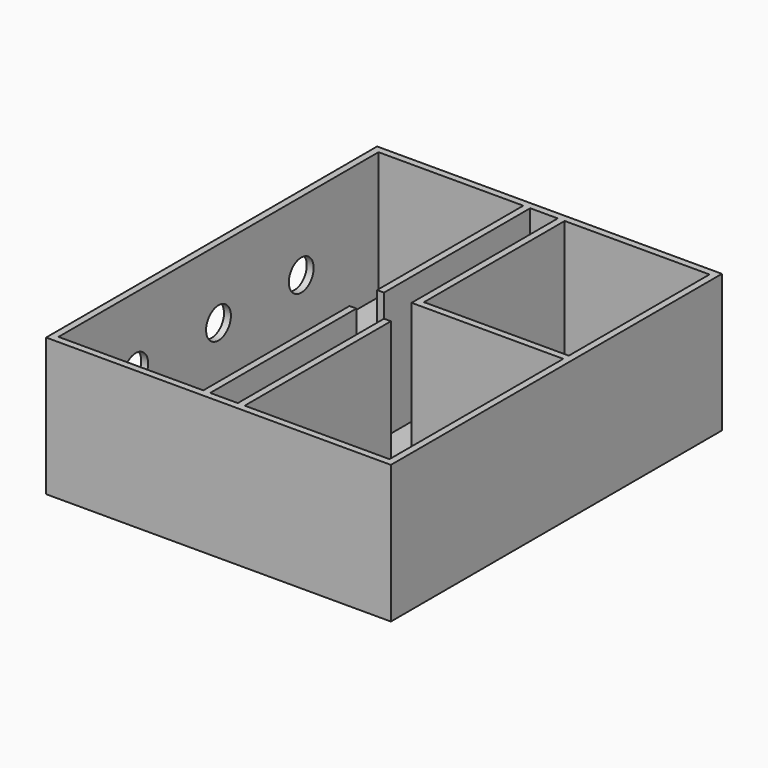
from build123d import *

# Parameters (mm, degrees)
F0_W      = 100
F0_H      = 120
F1_DEPTH  = 40
F2_W      = 96
F2_H      = 116
F3_DEPTH  = 37
F4_R      = 4.5
F5_DEPTH  = 2
F6_W      = 12
F6_H      = 116
F7_DEPTH  = 37
F8_W      = 8
F8_H      = 116
F9_DEPTH  = 37
F10_W     = 12
F10_H     = 10
F11_DEPTH = 37
F12_W     = 42
F12_H     = 53
F13_DEPTH = 37
F14_W     = 42
F14_H     = 51
F15_DEPTH = 37


with BuildPart() as f1:
    # F0 (on Top) → F1 (new body)
    with BuildSketch(Plane.XY):
        Rectangle(F0_W, F0_H)
    extrude(amount=F1_DEPTH)

    # F2 (on face) → F3 (cut)
    with BuildSketch(Plane.XY.offset(40)):
        Rectangle(F2_W, F2_H)
    extrude(amount=-F3_DEPTH, mode=Mode.SUBTRACT)

    # F4 (on face) → F5 (cut)
    with BuildSketch(Plane(origin=(-50, 0, 0), x_dir=(0, -1, 0), z_dir=(-1, 0, 0))):
        with Locations((0, 20)):
            Circle(F4_R)
        with Locations((-30, 20)):
            Circle(F4_R)
        with Locations((30, 20)):
            Circle(F4_R)
    extrude(amount=-F5_DEPTH, mode=Mode.SUBTRACT)

    # F6 (on face) → F7 (join)
    with BuildSketch(Plane.XY.offset(3)):
        Rectangle(F6_W, F6_H)
    extrude(amount=F7_DEPTH)

    # F8 (on face) → F9 (cut)
    with BuildSketch(Plane.XY.offset(40)):
        Rectangle(F8_W, F8_H)
    extrude(amount=-F9_DEPTH, mode=Mode.SUBTRACT)

    # F10 (on face) → F11 (cut)
    with BuildSketch(Plane.XY.offset(40)):
        Rectangle(F10_W, F10_H)
    extrude(amount=-F11_DEPTH, mode=Mode.SUBTRACT)

    # F12 (on face) → F13 (join)
    with BuildSketch(Plane.XY.offset(40)):
        with Locations((27, 31.5)):
            Rectangle(F12_W, F12_H)
    extrude(amount=-F13_DEPTH)

    # F14 (on face) → F15 (cut)
    with BuildSketch(Plane.XY.offset(40)):
        with Locations((27, 32.5)):
            Rectangle(F14_W, F14_H)
    extrude(amount=-F15_DEPTH, mode=Mode.SUBTRACT)


solid = f1.part
